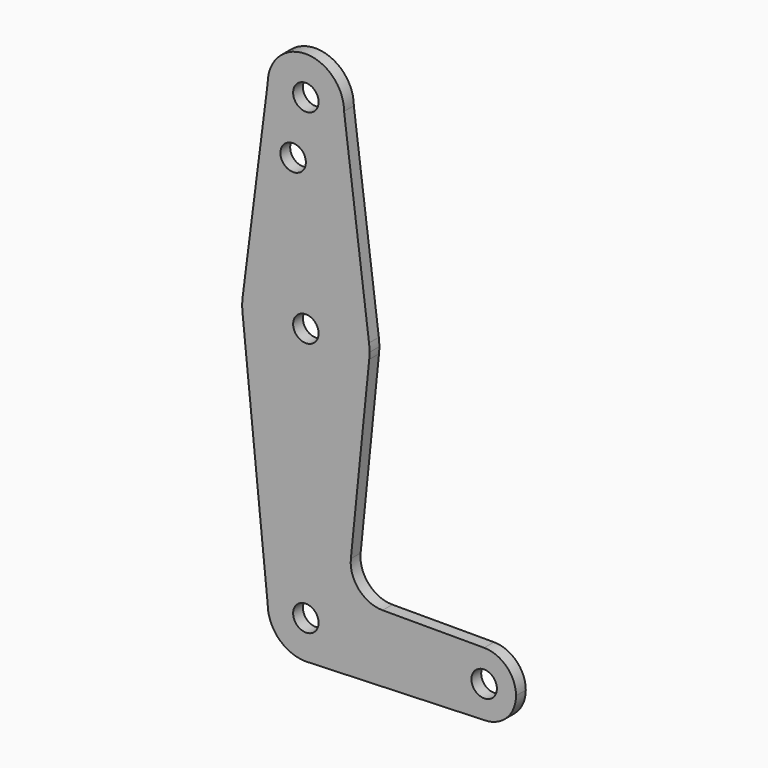
from build123d import *

# Parameters (mm, degrees)
F0_R     = 3.175
F1_DEPTH = 3.048


with BuildPart() as f1:
    # F0 (on Front) → F1 (new body)
    with BuildSketch(Plane.XZ):
        with BuildLine():
            ThreePointArc((-9.525, 114.3), (0, 104.775), (9.525, 114.3))
            ThreePointArc((9.525, 114.3), (0, 123.825), (-9.525, 114.3))
        make_face()
        with Locations((0, 114.3)):
            Circle(F0_R, mode=Mode.SUBTRACT)
        with BuildLine():
            Line((15.747457, 65.508289), (9.525, 114.3))
            ThreePointArc((9.525, 114.3), (0, 104.775), (-9.525, 114.3))
            Line((-9.525, 114.3), (-15.690657, 65.912239))
            ThreePointArc((-15.690657, 65.912239), (0.203962, 79.37369), (15.747457, 65.508289))
        make_face()
        with Locations((-3.175, 100.0252)):
            Circle(F0_R, mode=Mode.SUBTRACT)
        with BuildLine():
            ThreePointArc((15.875, 63.5), (15.843082, 64.506168), (15.747457, 65.508289))
            ThreePointArc((15.747457, 65.508289), (0.203962, 79.37369), (-15.690657, 65.912239))
            Line((-15.690657, 65.912239), (-15.794203, 65.09962))
            ThreePointArc((-15.794203, 65.09962), (-15.875, 63.5), (-15.794203, 61.90038))
            ThreePointArc((-15.794203, 61.90038), (0, 47.625), (15.794203, 61.90038))
            ThreePointArc((15.794203, 61.90038), (15.854788, 62.699171), (15.875, 63.5))
        make_face()
        with Locations((0, 63.5)):
            Circle(F0_R, mode=Mode.SUBTRACT)
        with BuildLine():
            Line((-15.794203, 65.09962), (-15.690657, 65.912239))
            ThreePointArc((-15.690657, 65.912239), (-15.747673, 65.506597), (-15.794203, 65.09962))
        make_face()
        with BuildLine():
            Line((11.215222, 16.688789), (15.794203, 61.90038))
            ThreePointArc((15.794203, 61.90038), (0, 47.625), (-15.794203, 61.90038))
            Line((-15.794203, 61.90038), (-9.525, 0))
            ThreePointArc((-9.525, 0), (0, 9.525), (9.525, 0))
            ThreePointArc((9.525, 0), (6.97129, -6.490511), (0.67949, -9.500732))
            Line((0.67949, -9.500732), (44.45, -7.9375))
            ThreePointArc((44.45, -7.9375), (36.5125, 0), (44.45, 7.9375))
            Line((44.45, 7.9375), (19.124959, 7.9375))
            ThreePointArc((19.124959, 7.9375), (13.226887, 10.556806), (11.215222, 16.688789))
        make_face()
        with BuildLine():
            ThreePointArc((9.525, 0), (0, 9.525), (-9.525, 0))
            ThreePointArc((-9.525, 0), (-6.735192, -6.735192), (0, -9.525))
            Line((0, -9.525), (0.67949, -9.500732))
            ThreePointArc((0.67949, -9.500732), (6.97129, -6.490511), (9.525, 0))
        make_face()
        Circle(F0_R, mode=Mode.SUBTRACT)
        with BuildLine():
            Line((0.67949, -9.500732), (0, -9.525))
            ThreePointArc((0, -9.525), (0.339962, -9.518931), (0.67949, -9.500732))
        make_face()
        with BuildLine():
            ThreePointArc((52.3875, 0), (50.06266, 5.61266), (44.45, 7.9375))
            ThreePointArc((44.45, 7.9375), (36.5125, 0), (44.45, -7.9375))
            ThreePointArc((44.45, -7.9375), (50.06266, -5.61266), (52.3875, 0))
        make_face()
        with Locations((44.45, 0)):
            Circle(F0_R, mode=Mode.SUBTRACT)
    extrude(amount=F1_DEPTH)


solid = f1.part
